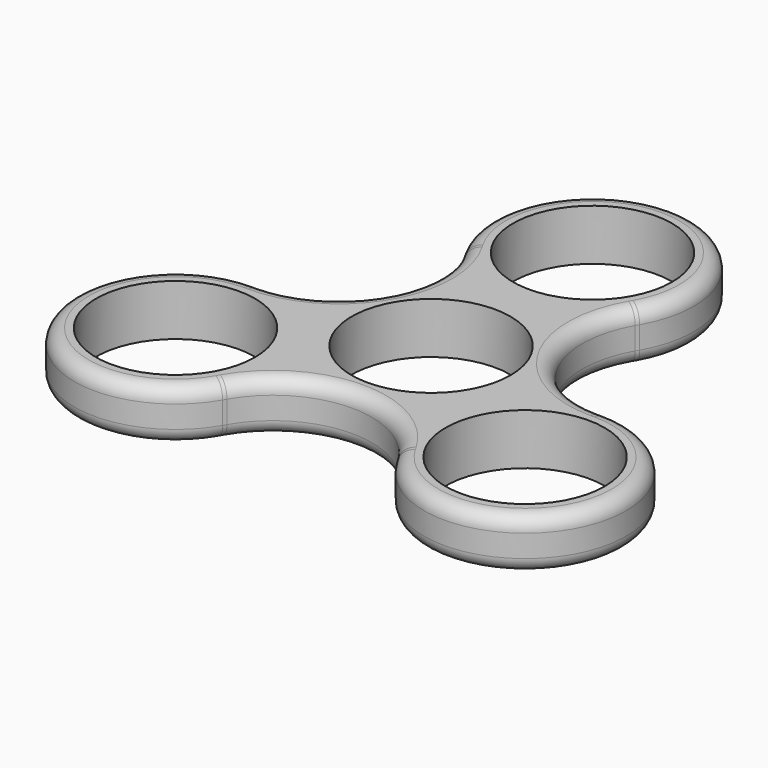
from build123d import *

# Parameters (mm, degrees)
F0_R     = 11.025
F1_DEPTH = 7.1
F2_R     = 2


with BuildPart() as f1:
    # F0 (on Top) → F1 (new body)
    with BuildSketch(Plane.XY):
        with BuildLine():
            ThreePointArc((23.739115, -4.508343), (11.886199, 2.338418), (11.883188, 16.026725))
            ThreePointArc((11.883188, 16.026725), (12.012565, 16.246295), (12.146006, 16.463418))
            ThreePointArc((12.146006, 16.463418), (0, 37.500918), (-12.146006, 16.463418))
            ThreePointArc((-12.146006, 16.463418), (-12.012565, 16.246295), (-11.883188, 16.026725))
            ThreePointArc((-11.883188, 16.026725), (-11.886199, 2.338418), (-23.739115, -4.508343))
            ThreePointArc((-23.739115, -4.508343), (-23.993956, -4.506084), (-24.248711, -4.499082))
            ThreePointArc((-24.248711, -4.499082), (-36.394718, -25.536582), (-12.102705, -25.536582))
            ThreePointArc((-12.102705, -25.536582), (-11.981391, -25.312457), (-11.855927, -25.090628))
            ThreePointArc((-11.855927, -25.090628), (0, -18.249082), (11.855927, -25.090628))
            ThreePointArc((11.855927, -25.090628), (11.981391, -25.312457), (12.102705, -25.536582))
            ThreePointArc((12.102705, -25.536582), (36.394718, -25.536582), (24.248711, -4.499082))
            ThreePointArc((24.248711, -4.499082), (23.993956, -4.506084), (23.739115, -4.508343))
        make_face()
        with Locations((-24.248711, -18.524082)):
            Circle(F0_R, mode=Mode.SUBTRACT)
        with Locations((24.248711, -18.524082)):
            Circle(F0_R, mode=Mode.SUBTRACT)
        with Locations((0, -4.524082)):
            Circle(F0_R, mode=Mode.SUBTRACT)
        with Locations((0, 23.475918)):
            Circle(F0_R, mode=Mode.SUBTRACT)
    extrude(amount=F1_DEPTH)

    # F2
    f2_edges = [f1.edges().sort_by_distance(p)[0] for p in [
        (0, 37.500918, 7.1),
        (-36.394718, -25.536582, 7.1),
        (36.394718, -25.536582, 7.1),
        (0, -18.249082, 7.1),
        (-11.886199, 2.338418, 7.1),
        (11.886199, 2.338418, 7.1),
        (0, -18.249082, 0),
        (-36.394718, -25.536582, 0),
        (-11.886199, 2.338418, 0),
        (0, 37.500918, 0),
        (11.886199, 2.338418, 0),
        (36.394718, -25.536582, 0),
    ]]
    fillet(f2_edges, radius=F2_R)


solid = f1.part
